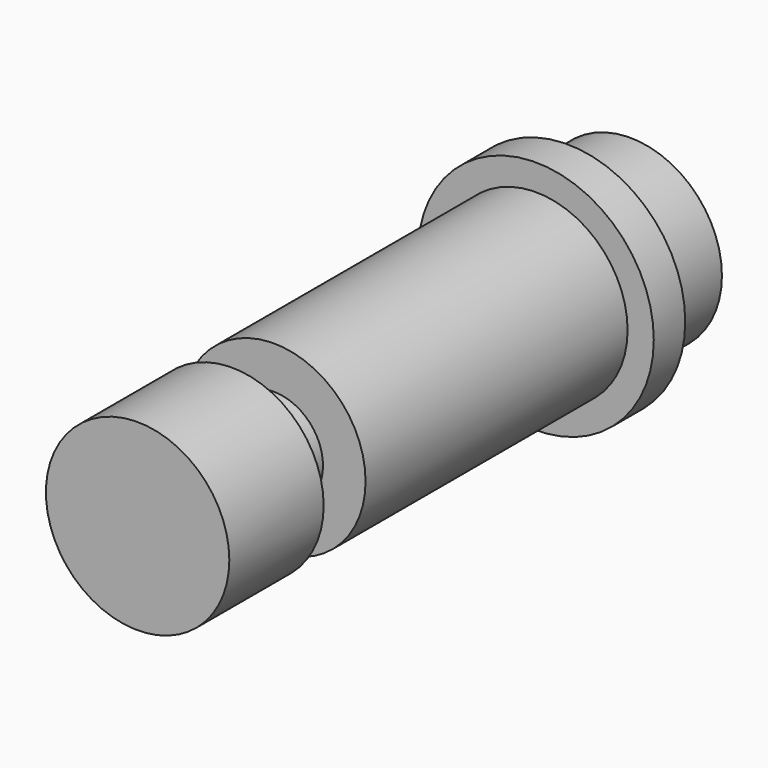
from build123d import *

# Parameters (mm, degrees)
F0_R     = 9
F0_R_2   = 7
F1_DEPTH = 3
F2_DEPTH = 6
F3_R     = 7
F4_DEPTH = 25
F5_R     = 3.75
F6_DEPTH = 4
F7_R     = 7
F8_DEPTH = 9


with BuildPart() as f1:
    # F0 (on Front) → F1 (new body)
    with BuildSketch(Plane.XZ):
        Circle(F0_R)
        Circle(F0_R_2, mode=Mode.SUBTRACT)
        Circle(F0_R_2)
    extrude(amount=F1_DEPTH)

    # F0 (on Front) → F2 (join)
    with BuildSketch(Plane.XZ):
        Circle(F0_R_2)
    extrude(amount=-F2_DEPTH)

    # F3 (on face) → F4 (join)
    with BuildSketch(Plane.XZ.offset(3)):
        Circle(F3_R)
    extrude(amount=F4_DEPTH)

    # F5 (on face) → F6 (join)
    with BuildSketch(Plane.XZ.offset(28)):
        Circle(F5_R)
    extrude(amount=F6_DEPTH)

    # F7 (on face) → F8 (join)
    with BuildSketch(Plane.XZ.offset(32)):
        Circle(F7_R)
    extrude(amount=F8_DEPTH)


solid = f1.part
